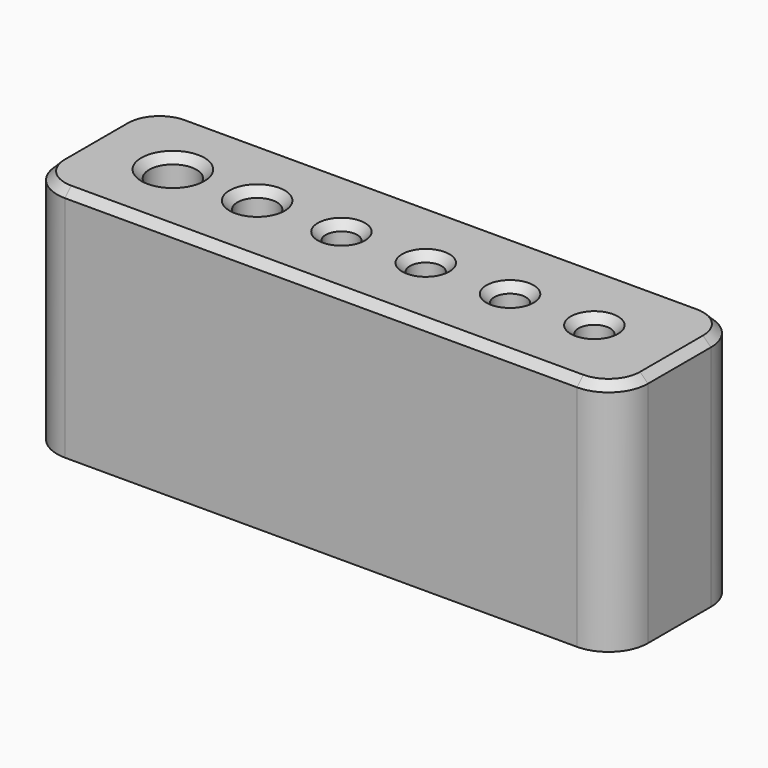
from build123d import *

# Parameters (mm, degrees)
F0_W     = 75
F0_H     = 20
F0_R     = 3
F0_R_2   = 2.5
F0_R_3   = 2
F1_DEPTH = 30
F2_DEPTH = 5
F3_R     = 5
F4_SIZE  = 1


with BuildPart() as f1:
    # F0 (on Top) → F1 (new body)
    with BuildSketch(Plane.XY):
        Rectangle(F0_W, F0_H)
        with Locations((-26.8, 0)):
            Circle(F0_R, mode=Mode.SUBTRACT)
        with Locations((-16.1, 0)):
            Circle(F0_R_2, mode=Mode.SUBTRACT)
        with Locations((-5.4, 0)):
            Circle(F0_R_3, mode=Mode.SUBTRACT)
        with Locations((5.3, 0)):
            Circle(F0_R_3, mode=Mode.SUBTRACT)
        with Locations((16, 0)):
            Circle(F0_R_3, mode=Mode.SUBTRACT)
        with Locations((26.7, 0)):
            Circle(F0_R_3, mode=Mode.SUBTRACT)
    extrude(amount=F1_DEPTH)

    # F0 (on Top) → F2 (join)
    with BuildSketch(Plane.XY):
        with Locations((-26.8, 0)):
            Circle(F0_R)
        with Locations((-16.1, 0)):
            Circle(F0_R_2)
        with Locations((-5.4, 0)):
            Circle(F0_R_3)
        with Locations((5.3, 0)):
            Circle(F0_R_3)
        with Locations((16, 0)):
            Circle(F0_R_3)
        with Locations((26.7, 0)):
            Circle(F0_R_3)
    extrude(amount=F2_DEPTH)

    # F3
    f3_edges = [f1.edges().sort_by_distance(p)[0] for p in [
        (37.5, -10, 15),
        (37.5, 10, 15),
        (-37.5, -10, 15),
        (-37.5, 10, 15),
    ]]
    fillet(f3_edges, radius=F3_R)

    # F4
    f4_edges = [f1.edges().sort_by_distance(p)[0] for p in [
        (-29.8, 0, 30),
        (-18.6, 0, 30),
        (-7.4, 0, 30),
        (3.3, 0, 30),
        (14, 0, 30),
        (24.7, 0, 30),
        (0, -10, 30),
    ]]
    chamfer(f4_edges, length=F4_SIZE)


solid = f1.part
